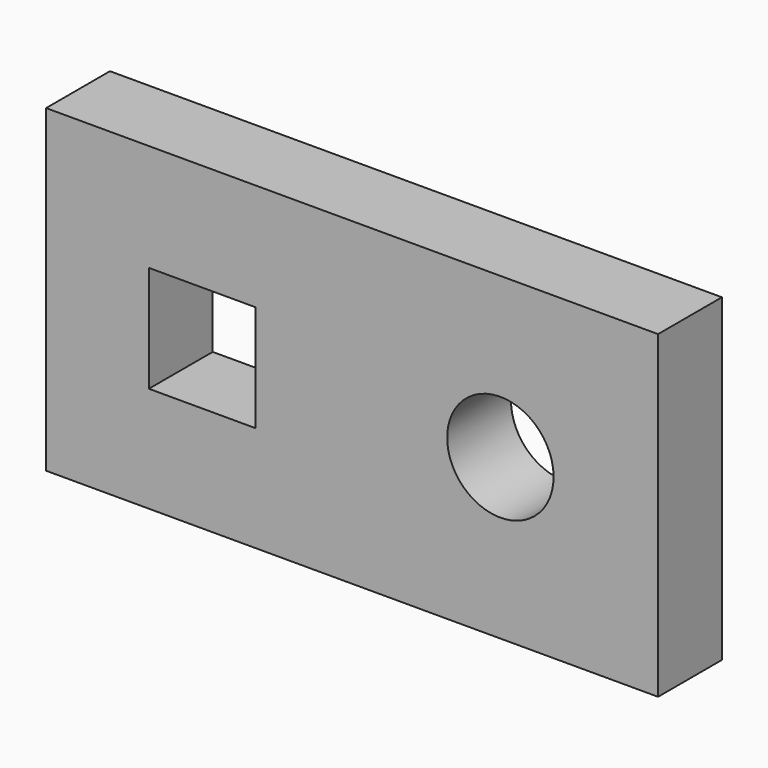
from build123d import *

# Parameters (mm, degrees)
F0_W     = 146.05
F0_H     = 76.2
F0_R     = 12.7
F1_DEPTH = 19.05


with BuildPart() as f1:
    # F0 (on Front) → F1 (new body)
    with BuildSketch(Plane.XZ):
        with Locations((-73.025, 38.1)):
            Rectangle(F0_W, F0_H)
        Polygon((-109.5375, 25.202036), (-121.519245, 25.202036), (-121.519245, 50.602036), (-96.119245, 50.602036), (-96.119245, 25.202036), align=None, mode=Mode.SUBTRACT)
        with Locations((-37.634335, 38.1)):
            Circle(F0_R, mode=Mode.SUBTRACT)
    extrude(amount=F1_DEPTH)


solid = f1.part
